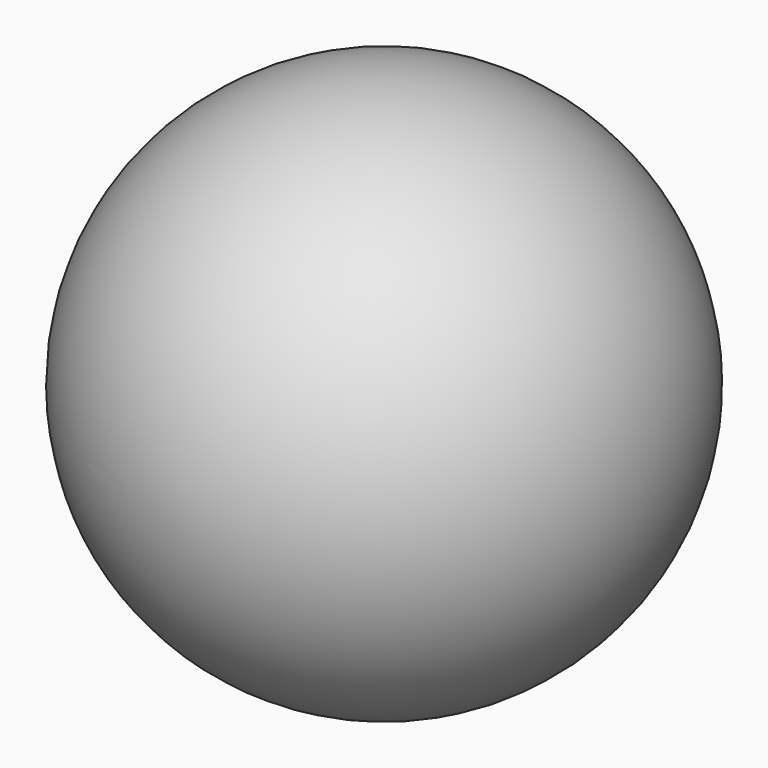
from build123d import *


with BuildPart() as part:
    # Sketch → Revolution (revolve)
    with BuildSketch(Plane.XY):
        with BuildLine():
            ThreePointArc((0, 3), (-3, 0), (0, -3))
            Line((0, -3), (0, 3))
        make_face()
    revolve(axis=Axis((0, 0, 0), (0, 1, 0)))


solid = part.part
